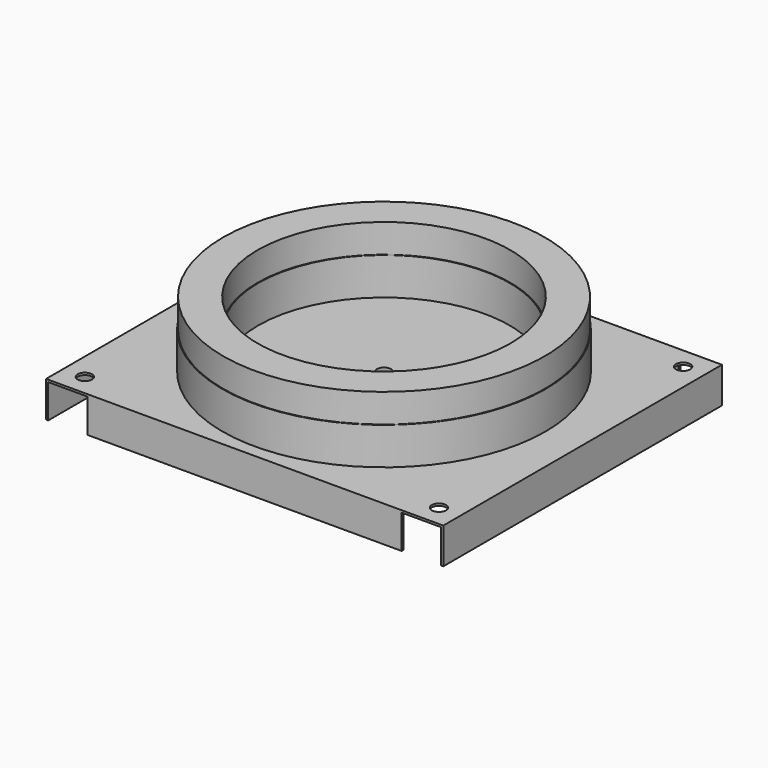
from build123d import *

# Parameters (mm, degrees)
F2_W     = 553
F2_H     = 485
F2_R     = 10
F2_R_2   = 200
F3_DEPTH = 3
F4_W     = 3
F4_H     = 485
F4_W_2   = 437
F4_H_2   = 3
F5_DEPTH = 50
F6_R     = 13
F6_R_2   = 10
F7_DEPTH = 50


with BuildPart() as f1:
    # F0 (on Front) → F1 (revolve)
    with BuildSketch(Plane.XZ):
        Polygon((-225, 3), (-175, 3), (-175, 55), (-176, 55), (-176, 95), (-224, 95), (-224, 55), (-225, 55), align=None)
        Polygon((-10, 3), (-175, 3), (-225, 3), (-225, 0), (-10, 0), align=None)
    revolve(axis=Axis((0, 0, 187.921241), (0, 0, -1)))

    # F2 (on Top) → F3 (join)
    with BuildSketch(Plane.XY):
        Rectangle(F2_W, F2_H)
        with Locations((-246.5, -212.5)):
            Circle(F2_R, mode=Mode.SUBTRACT)
        with Locations((246.5, -212.5)):
            Circle(F2_R, mode=Mode.SUBTRACT)
        with Locations((-246.5, 212.5)):
            Circle(F2_R, mode=Mode.SUBTRACT)
        Circle(F2_R_2, mode=Mode.SUBTRACT)
        with Locations((246.5, 212.5)):
            Circle(F2_R, mode=Mode.SUBTRACT)
    extrude(amount=F3_DEPTH)

    # F4 (on face) → F5 (join)
    with BuildSketch(Plane.XY.offset(3)):
        with Locations((-275, 0)):
            Rectangle(F4_W, F4_H)
        with Locations((275, 0)):
            Rectangle(F4_W, F4_H)
        with Locations((0, -241)):
            Rectangle(F4_W_2, F4_H_2)
        with Locations((0, 241)):
            Rectangle(F4_W_2, F4_H_2)
    extrude(amount=-F5_DEPTH)

    # F6 (on face) → F7 (join)
    with BuildSketch(Plane(origin=(0, 0, 0), x_dir=(1, 0, 0), z_dir=(0, 0, -1))):
        Circle(F6_R)
        Circle(F6_R_2, mode=Mode.SUBTRACT)
    extrude(amount=F7_DEPTH)


solid = f1.part
